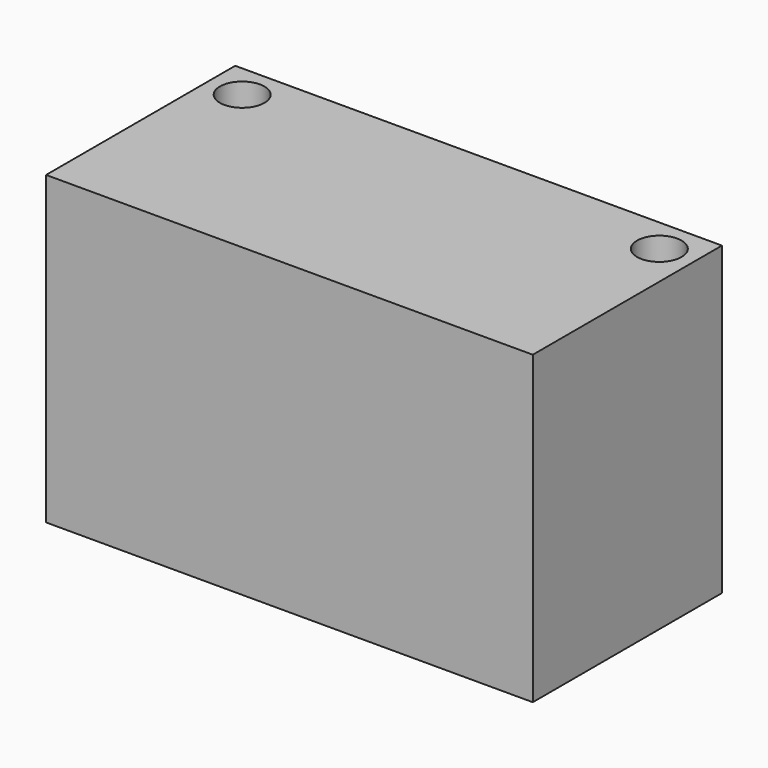
from build123d import *

# Parameters (mm, degrees)
SKETCH_W  = 35
SKETCH_H  = 17
SKETCH_R  = 1.6
PAD_DEPTH = 22


with BuildPart() as part:
    # Sketch → Pad (new body)
    with BuildSketch(Plane.XY):
        with Locations((17.5, 8.5)):
            Rectangle(SKETCH_W, SKETCH_H)
        with Locations((2.5, 14.5)):
            Circle(SKETCH_R, mode=Mode.SUBTRACT)
        with Locations((32.5, 14.5)):
            Circle(SKETCH_R, mode=Mode.SUBTRACT)
    extrude(amount=PAD_DEPTH)


solid = part.part
